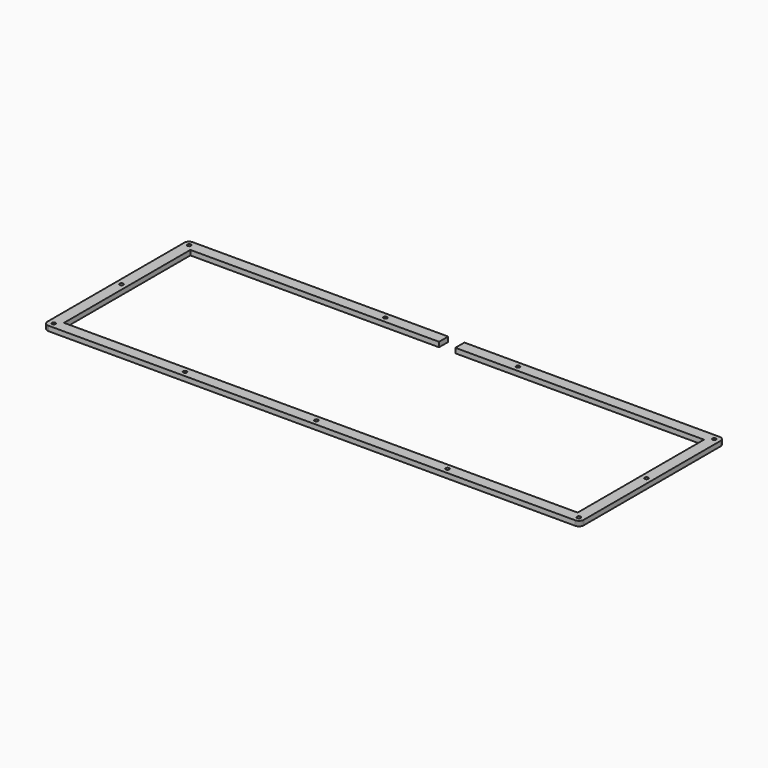
from build123d import *

# Parameters (mm, degrees)
F1_DEPTH = 3


with BuildPart() as f1:
    # F0 (on Top) → F1 (new body)
    with BuildSketch(Plane.XY):
        Polygon((-4.999664, 48.624647), (-4.999664, 55.625647), (-162.161964, 55.625647), (-162.397614, 55.615647), (-162.631884, 55.588647), (-162.863394, 55.542647), (-163.089384, 55.478647), (-163.311254, 55.397647), (-163.523464, 55.297647), (-163.730174, 55.182647), (-163.925854, 55.052647), (-164.110514, 54.906647), (-164.284146, 54.746647), (-164.444, 54.573647), (-164.590071, 54.388647), (-164.719608, 54.192647), (-164.835361, 53.986647), (-164.934581, 53.773647), (-165.015885, 53.552647), (-165.079275, 53.325647), (-165.126128, 53.094647), (-165.152311, 52.860647), (-165.161957, 52.624647), (-165.163335, -52.625653), (-165.152311, -52.861303), (-165.126128, -53.095573), (-165.079275, -53.325703), (-165.015885, -53.553073), (-164.934581, -53.774943), (-164.835361, -53.987153), (-164.719608, -54.193863), (-164.590071, -54.389543), (-164.444, -54.574203), (-164.284146, -54.747835), (-164.110514, -54.907689), (-163.925854, -55.05376), (-163.730174, -55.183297), (-163.523464, -55.29905), (-163.311254, -55.396892), (-163.089384, -55.479574), (-162.863394, -55.542964), (-162.631884, -55.589817), (-162.397614, -55.616), (-162.161964, -55.625646), (162.163336, -55.625646), (162.399336, -55.616), (162.633336, -55.589817), (162.863336, -55.542964), (163.090336, -55.479574), (163.312336, -55.396892), (163.525336, -55.29905), (163.731336, -55.183297), (163.927336, -55.05376), (164.112336, -54.907689), (164.285336, -54.747835), (164.445336, -54.574203), (164.591336, -54.389543), (164.721336, -54.193863), (164.836336, -53.987153), (164.934336, -53.774943), (165.017336, -53.553073), (165.081336, -53.325703), (165.127336, -53.095573), (165.154336, -52.861303), (165.163336, -52.625653), (165.163336, 52.624647), (165.154336, 52.860647), (165.127336, 53.094647), (165.081336, 53.325647), (165.017336, 53.552647), (164.934336, 53.773647), (164.836336, 53.986647), (164.721336, 54.192647), (164.591336, 54.388647), (164.445336, 54.573647), (164.285336, 54.746647), (164.112336, 54.906647), (163.927336, 55.052647), (163.731336, 55.182647), (163.525336, 55.297647), (163.312336, 55.397647), (163.090336, 55.478647), (162.863336, 55.542647), (162.633336, 55.588647), (162.399336, 55.615647), (162.163336, 55.624647), (4.999336, 55.624647), (4.999336, 48.624647), (158.164336, 48.624647), (158.164336, -48.625203), (-158.161514, -48.625203), (-158.161514, 48.624647), align=None)
        Polygon((-162.327334, -51.211803), (-162.011764, -51.051923), (-161.661744, -50.995443), (-161.313094, -51.051923), (-160.997534, -51.211803), (-160.748114, -51.461223), (-160.588234, -51.776783), (-160.531754, -52.125433), (-160.588234, -52.475453), (-160.748114, -52.789643), (-160.997534, -53.040443), (-161.313094, -53.200293), (-161.661744, -53.256803), (-162.011764, -53.200293), (-162.327334, -53.040443), (-162.576754, -52.789643), (-162.736604, -52.475453), (-162.793114, -52.125433), (-162.736604, -51.776783), (-162.576754, -51.461223), align=None, mode=Mode.SUBTRACT)
        Polygon((-81.494264, -51.211803), (-81.180264, -51.051923), (-80.831364, -50.995443), (-80.481364, -51.051923), (-80.167464, -51.211803), (-79.916564, -51.461223), (-79.755364, -51.776783), (-79.701364, -52.125433), (-79.755364, -52.475453), (-79.916564, -52.789643), (-80.167464, -53.040443), (-80.481364, -53.200293), (-80.831364, -53.256803), (-81.180264, -53.200293), (-81.494264, -53.040443), (-81.745064, -52.789643), (-81.906264, -52.475453), (-81.961664, -52.125433), (-81.906264, -51.776783), (-81.745064, -51.461223), align=None, mode=Mode.SUBTRACT)
        Polygon((-0.663664, -51.211803), (-0.348664, -51.051923), (0.001336, -50.995443), (0.350336, -51.051923), (0.665336, -51.211803), (0.915336, -51.461223), (1.074336, -51.776783), (1.131336, -52.125433), (1.074336, -52.475453), (0.915336, -52.789643), (0.665336, -53.040443), (0.350336, -53.200293), (0.001336, -53.256803), (-0.348664, -53.200293), (-0.663664, -53.040443), (-0.913664, -52.789643), (-1.073664, -52.475453), (-1.129664, -52.125433), (-1.073664, -51.776783), (-0.913664, -51.461223), align=None, mode=Mode.SUBTRACT)
        Polygon((80.167336, -51.211803), (80.483336, -51.051923), (80.831336, -50.995443), (81.181336, -51.051923), (81.495336, -51.211803), (81.746336, -51.461223), (81.906336, -51.776783), (81.961336, -52.125433), (81.906336, -52.475453), (81.746336, -52.789643), (81.495336, -53.040443), (81.181336, -53.200293), (80.831336, -53.256803), (80.483336, -53.200293), (80.167336, -53.040443), (79.917336, -52.789643), (79.756336, -52.475453), (79.701336, -52.125433), (79.756336, -51.776783), (79.917336, -51.461223), align=None, mode=Mode.SUBTRACT)
        Polygon((160.999336, -51.211803), (161.314336, -51.051923), (161.664336, -50.995443), (162.013336, -51.051923), (162.327336, -51.211803), (162.578336, -51.461223), (162.738336, -51.776783), (162.794336, -52.125433), (162.738336, -52.475453), (162.578336, -52.789643), (162.327336, -53.040443), (162.013336, -53.200293), (161.664336, -53.256803), (161.314336, -53.200293), (160.999336, -53.040443), (160.749336, -52.789643), (160.589336, -52.475453), (160.533336, -52.125433), (160.589336, -51.776783), (160.749336, -51.461223), align=None, mode=Mode.SUBTRACT)
        Polygon((-162.327334, 0.913847), (-162.011764, 1.075047), (-161.661744, 1.130047), (-161.313094, 1.075047), (-160.997534, 0.913847), (-160.748114, 0.663047), (-160.588234, 0.349047), (-160.531754, 0.000147), (-160.588234, -0.349853), (-160.748114, -0.663753), (-160.997534, -0.914653), (-161.313094, -1.074753), (-161.661744, -1.129853), (-162.011764, -1.074753), (-162.327334, -0.914653), (-162.576754, -0.663753), (-162.736604, -0.349853), (-162.793114, 0.000147), (-162.736604, 0.349047), (-162.576754, 0.663047), align=None, mode=Mode.SUBTRACT)
        Polygon((-162.327334, 53.039647), (-162.011764, 53.199647), (-161.661744, 53.255647), (-161.313094, 53.199647), (-160.997534, 53.039647), (-160.748114, 52.790647), (-160.588234, 52.474647), (-160.531754, 52.124647), (-160.588234, 51.775647), (-160.748114, 51.460647), (-160.997534, 51.210647), (-161.313094, 51.050647), (-161.661744, 50.994647), (-162.011764, 51.050647), (-162.327334, 51.210647), (-162.576754, 51.460647), (-162.736604, 51.775647), (-162.793114, 52.124647), (-162.736604, 52.474647), (-162.576754, 52.790647), align=None, mode=Mode.SUBTRACT)
        Polygon((-41.494264, 53.039647), (-41.180264, 53.199647), (-40.831364, 53.255647), (-40.481364, 53.199647), (-40.167464, 53.039647), (-39.916564, 52.790647), (-39.755364, 52.474647), (-39.701364, 52.124647), (-39.755364, 51.775647), (-39.916564, 51.460647), (-40.167464, 51.210647), (-40.481364, 51.050647), (-40.831364, 50.994647), (-41.180264, 51.050647), (-41.494264, 51.210647), (-41.745064, 51.460647), (-41.906264, 51.775647), (-41.961664, 52.124647), (-41.906264, 52.474647), (-41.745064, 52.790647), align=None, mode=Mode.SUBTRACT)
        Polygon((160.999336, 0.913847), (161.314336, 1.075047), (161.664336, 1.130047), (162.013336, 1.075047), (162.327336, 0.913847), (162.578336, 0.663047), (162.738336, 0.349047), (162.794336, 0.000147), (162.738336, -0.349853), (162.578336, -0.663753), (162.327336, -0.914653), (162.013336, -1.074753), (161.664336, -1.129853), (161.314336, -1.074753), (160.999336, -0.914653), (160.749336, -0.663753), (160.589336, -0.349853), (160.533336, 0.000147), (160.589336, 0.349047), (160.749336, 0.663047), align=None, mode=Mode.SUBTRACT)
        Polygon((40.167336, 53.039647), (40.483336, 53.199647), (40.831336, 53.255647), (41.181336, 53.199647), (41.495336, 53.039647), (41.746336, 52.790647), (41.906336, 52.474647), (41.961336, 52.124647), (41.906336, 51.775647), (41.746336, 51.460647), (41.495336, 51.210647), (41.181336, 51.050647), (40.831336, 50.994647), (40.483336, 51.050647), (40.167336, 51.210647), (39.917336, 51.460647), (39.756336, 51.775647), (39.701336, 52.124647), (39.756336, 52.474647), (39.917336, 52.790647), align=None, mode=Mode.SUBTRACT)
        Polygon((160.999336, 53.039647), (161.314336, 53.199647), (161.664336, 53.255647), (162.013336, 53.199647), (162.327336, 53.039647), (162.578336, 52.790647), (162.738336, 52.474647), (162.794336, 52.124647), (162.738336, 51.775647), (162.578336, 51.460647), (162.327336, 51.210647), (162.013336, 51.050647), (161.664336, 50.994647), (161.314336, 51.050647), (160.999336, 51.210647), (160.749336, 51.460647), (160.589336, 51.775647), (160.533336, 52.124647), (160.589336, 52.474647), (160.749336, 52.790647), align=None, mode=Mode.SUBTRACT)
    extrude(amount=F1_DEPTH)


solid = f1.part
